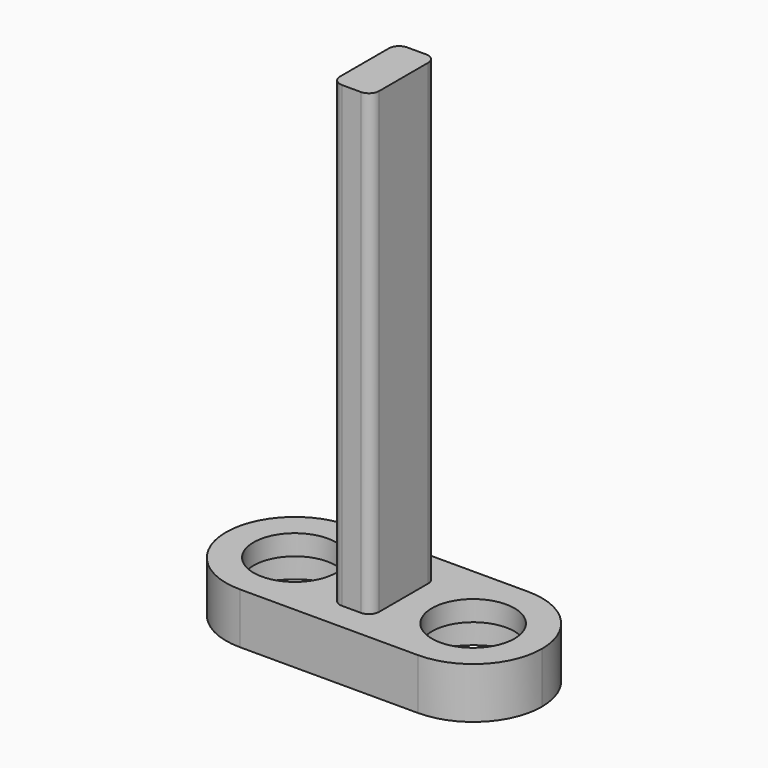
from build123d import *

# Parameters (mm, degrees)
F0_W     = 3.848
F0_H     = 8
F0_R     = 6
F0_R_2   = 4.05
F1_DEPTH = 5
F2_DEPTH = 3
F3_DEPTH = 50
F4_R     = 1


with BuildPart() as f1:
    # F0 (on Top) → F1 (new body)
    with BuildSketch(Plane.XY):
        with BuildLine():
            ThreePointArc((-8.75, 9.683053), (-3.977029, 7.706024), (-2, 2.933053))
            ThreePointArc((-2, 2.933053), (-3.977029, -1.839918), (-8.75, -3.816947))
            Line((-8.75, -3.816947), (8.75, -3.816947))
            ThreePointArc((8.75, -3.816947), (2, 2.933053), (8.75, 9.683053))
            Line((8.75, 9.683053), (-8.75, 9.683053))
        make_face()
        with Locations((0, 2.933053)):
            Rectangle(F0_W, F0_H, mode=Mode.SUBTRACT)
        with BuildLine():
            ThreePointArc((-8.75, -3.816947), (-3.977029, -1.839918), (-2, 2.933053))
            ThreePointArc((-2, 2.933053), (-3.977029, 7.706024), (-8.75, 9.683053))
            ThreePointArc((-8.75, 9.683053), (-15.5, 2.933053), (-8.75, -3.816947))
        make_face()
        with Locations((-8.75, 2.933053)):
            Circle(F0_R, mode=Mode.SUBTRACT)
        with BuildLine():
            ThreePointArc((15.5, 2.933053), (13.522971, 7.706024), (8.75, 9.683053))
            ThreePointArc((8.75, 9.683053), (2, 2.933053), (8.75, -3.816947))
            ThreePointArc((8.75, -3.816947), (13.522971, -1.839918), (15.5, 2.933053))
        make_face()
        with Locations((8.75, 2.933053)):
            Circle(F0_R, mode=Mode.SUBTRACT)
        with Locations((-8.75, 2.933053)):
            Circle(F0_R)
        with Locations((-8.75, 2.933053)):
            Circle(F0_R_2, mode=Mode.SUBTRACT)
        with Locations((8.75, 2.933053)):
            Circle(F0_R)
        with Locations((8.75, 2.933053)):
            Circle(F0_R_2, mode=Mode.SUBTRACT)
    extrude(amount=F1_DEPTH)

    # F0 (on Top) → F2 (cut)
    with BuildSketch(Plane.XY):
        with Locations((-8.75, 2.933053)):
            Circle(F0_R)
        with Locations((-8.75, 2.933053)):
            Circle(F0_R_2, mode=Mode.SUBTRACT)
        with Locations((8.75, 2.933053)):
            Circle(F0_R)
        with Locations((8.75, 2.933053)):
            Circle(F0_R_2, mode=Mode.SUBTRACT)
    extrude(amount=F2_DEPTH, mode=Mode.SUBTRACT)

    # F0 (on Top) → F3 (join)
    with BuildSketch(Plane.XY):
        with Locations((0, 2.933053)):
            Rectangle(F0_W, F0_H)
    extrude(amount=F3_DEPTH)

    # F4
    f4_edges = [f1.edges().sort_by_distance(p)[0] for p in [
        (-1.924, -1.066947, 27.5),
        (1.924, -1.066947, 27.5),
        (1.924, 6.933053, 27.5),
        (-1.924, 6.933053, 27.5),
    ]]
    fillet(f4_edges, radius=F4_R)


solid = f1.part
